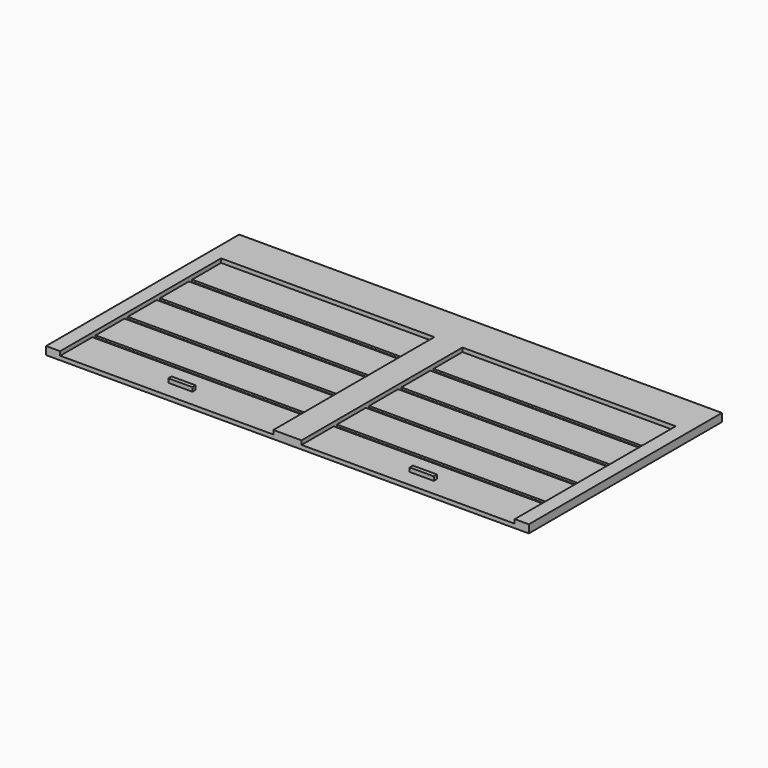
from build123d import *

# Parameters (mm, degrees)
F1_DEPTH = 2
F0_W     = 53
F0_H     = 9
F0_H_2   = 10
F0_W_2   = 6
F0_H_3   = 1
F2_DEPTH = 1
F3_DEPTH = 0.5
F4_DEPTH = 2


with BuildPart() as f1:
    # F0 (on Top) → F1 (new body)
    with BuildSketch(Plane.XY):
        Polygon((56.5, -30), (60, -30), (60, 30), (-60, 30), (-60, -30), (-56.5, -30), (-56.5, -20), (-56.5, -19), (-56.5, -10), (-56.5, -9), (-56.5, 0), (-56.5, 1), (-56.5, 10), (-56.5, 11), (-56.5, 20), (-3.5, 20), (-3.5, 11), (-3.5, 10), (-3.5, 1), (-3.5, 0), (-3.5, -9), (-3.5, -10), (-3.5, -19), (-3.5, -20), (-3.5, -30), (3.5, -30), (3.5, -20), (3.5, -19), (3.5, -10), (3.5, -9), (3.5, 0), (3.5, 1), (3.5, 10), (3.5, 11), (3.5, 20), (56.5, 20), (56.5, 11), (56.5, 10), (56.5, 1), (56.5, 0), (56.5, -9), (56.5, -10), (56.5, -19), (56.5, -20), align=None)
    extrude(amount=F1_DEPTH)

    # F0 (on Top) → F2 (join)
    with BuildSketch(Plane.XY):
        with Locations((-30, 15.5)):
            Rectangle(F0_W, F0_H)
        with Locations((-30, 5.5)):
            Rectangle(F0_W, F0_H)
        with Locations((-30, -4.5)):
            Rectangle(F0_W, F0_H)
        with Locations((-30, -14.5)):
            Rectangle(F0_W, F0_H)
        with Locations((-30, -25)):
            Rectangle(F0_W, F0_H_2)
        with Locations((-30, -25.271689)):
            Rectangle(F0_W_2, F0_H_3, mode=Mode.SUBTRACT)
        with Locations((30, -25)):
            Rectangle(F0_W, F0_H_2)
        with Locations((30, -25.271689)):
            Rectangle(F0_W_2, F0_H_3, mode=Mode.SUBTRACT)
        with Locations((30, -14.5)):
            Rectangle(F0_W, F0_H)
        with Locations((30, -4.5)):
            Rectangle(F0_W, F0_H)
        with Locations((30, 5.5)):
            Rectangle(F0_W, F0_H)
        with Locations((30, 15.5)):
            Rectangle(F0_W, F0_H)
    extrude(amount=F2_DEPTH)

    # F0 (on Top) → F3 (join)
    with BuildSketch(Plane.XY):
        with Locations((-30, 10.5)):
            Rectangle(F0_W, F0_H_3)
        with Locations((-30, 0.5)):
            Rectangle(F0_W, F0_H_3)
        with Locations((-30, -9.5)):
            Rectangle(F0_W, F0_H_3)
        with Locations((-30, -19.5)):
            Rectangle(F0_W, F0_H_3)
        with Locations((30, -19.5)):
            Rectangle(F0_W, F0_H_3)
        with Locations((30, -9.5)):
            Rectangle(F0_W, F0_H_3)
        with Locations((30, 0.5)):
            Rectangle(F0_W, F0_H_3)
        with Locations((30, 10.5)):
            Rectangle(F0_W, F0_H_3)
    extrude(amount=F3_DEPTH)

    # F0 (on Top) → F4 (join)
    with BuildSketch(Plane.XY):
        with Locations((-30, -25.271689)):
            Rectangle(F0_W_2, F0_H_3)
        with Locations((30, -25.271689)):
            Rectangle(F0_W_2, F0_H_3)
    extrude(amount=F4_DEPTH)


solid = f1.part
